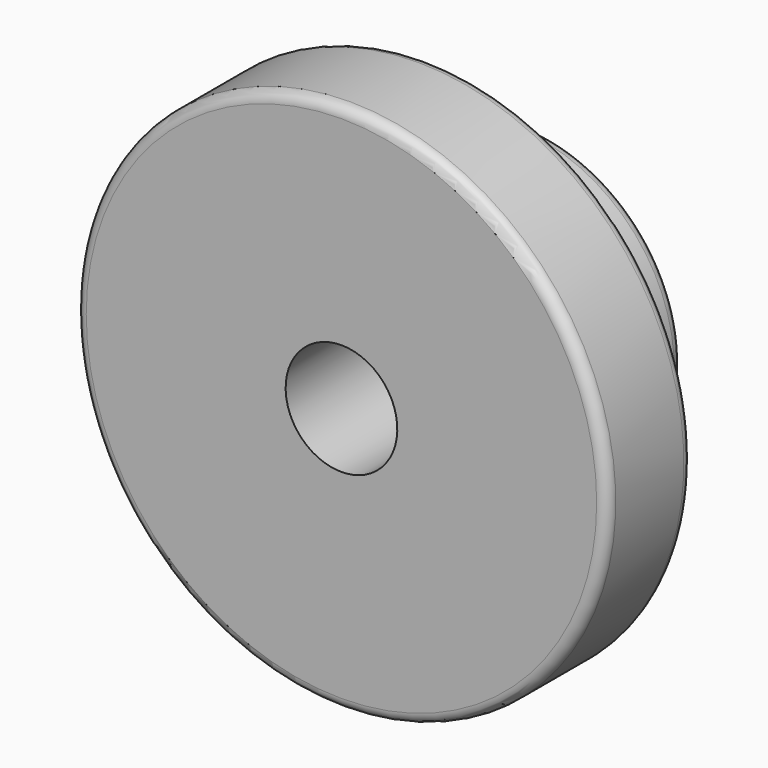
from build123d import *

# Parameters (mm, degrees)
F2_R = 1


with BuildPart() as f1:
    # F0 (on Right) → F1 (revolve)
    with BuildSketch(Plane.YZ):
        Polygon((0, 25), (0, 5.25), (21.225543, 5.25), (21.370892, 15), (10, 15), (10, 25), align=None)
    revolve(axis=Axis((0, 15.687147, 0), (0, 1, 0)))

    # F2
    f2_edges = [f1.edges().sort_by_distance(p)[0] for p in [
        (0, 0, -25),
        (0, 10, -25),
        (0, 21.370892, -15),
    ]]
    fillet(f2_edges, radius=F2_R)


solid = f1.part
